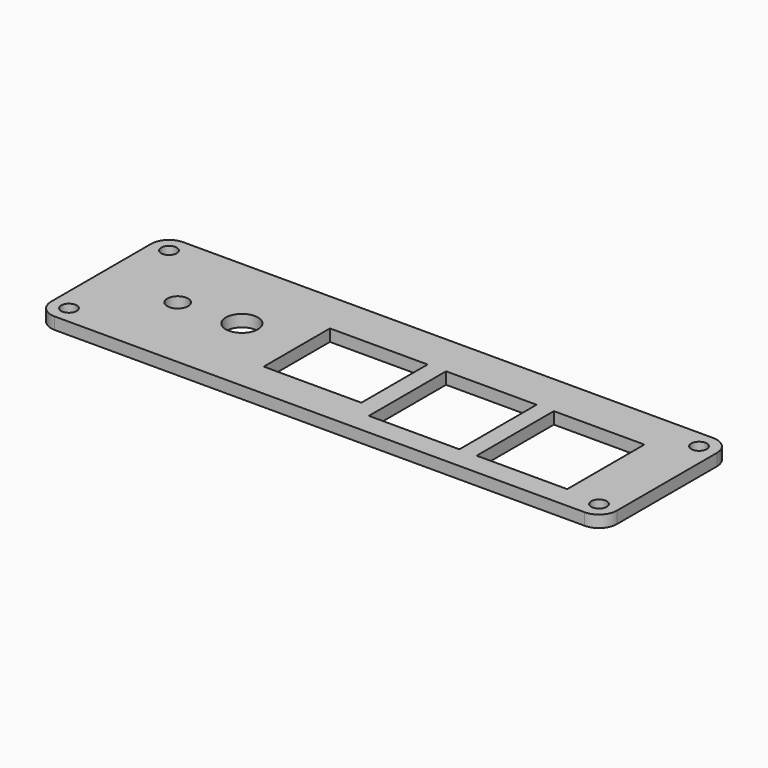
from build123d import *

# Parameters (mm, degrees)
SKETCH010_W     = 95
SKETCH010_H     = 27
PAD004_DEPTH    = 2
SKETCH011_R     = 1.3
POCKET006_DEPTH = 2
FILLET004_R     = 3
SKETCH012_R     = 1.75
SKETCH012_R_2   = 2.7
POCKET007_DEPTH = 2
SKETCH013_W     = 15.2
SKETCH013_H     = 16.2
SKETCH013_W_2   = 16.4
SKETCH013_H_2   = 13.9
POCKET008_DEPTH = 2


with BuildPart() as part:
    # Sketch010 → Pad004 (new body)
    with BuildSketch(Plane.XY):
        Rectangle(SKETCH010_W, SKETCH010_H)
    extrude(amount=PAD004_DEPTH)

    # Sketch011 (on Face6 of Pad004) → Pocket006 (cut)
    with BuildSketch(Plane.XY.offset(2)):
        with Locations((-44.5, 10.5)):
            Circle(SKETCH011_R)
        with Locations((44.5, 10.5)):
            Circle(SKETCH011_R)
        with Locations((44.5, -10.5)):
            Circle(SKETCH011_R)
        with Locations((-44.5, -10.5)):
            Circle(SKETCH011_R)
    extrude(amount=-POCKET006_DEPTH, mode=Mode.SUBTRACT)

    # Fillet004
    fillet004_edges = [part.edges().sort_by_distance(p)[0] for p in [
        (-47.5, -13.5, 1),
        (47.5, -13.5, 1),
        (47.5, 13.5, 1),
        (-47.5, 13.5, 1),
    ]]
    fillet(fillet004_edges, radius=FILLET004_R)

    # Sketch012 (on Face5 of Fillet004) → Pocket007 (cut)
    with BuildSketch(Plane.XY.offset(2)):
        with Locations((-34.4, -0.3)):
            Circle(SKETCH012_R)
        with Locations((-24.1, 0.3)):
            Circle(SKETCH012_R_2)
    extrude(amount=-POCKET007_DEPTH, mode=Mode.SUBTRACT)

    # Sketch013 (on Face5 of Pocket007) → Pocket008 (cut)
    with BuildSketch(Plane.XY.offset(2)):
        with Locations((12.9, -1.7)):
            Rectangle(SKETCH013_W, SKETCH013_H)
        with Locations((31, -1.7)):
            Rectangle(SKETCH013_W, SKETCH013_H)
        with Locations((-6, -0.55)):
            Rectangle(SKETCH013_W_2, SKETCH013_H_2)
    extrude(amount=-POCKET008_DEPTH, mode=Mode.SUBTRACT)


with BuildPart() as part_1:
    # Body003 placement: moved
    add(part.part.moved(Location((0, -1.2, 135.6))))


solid = part_1.part
